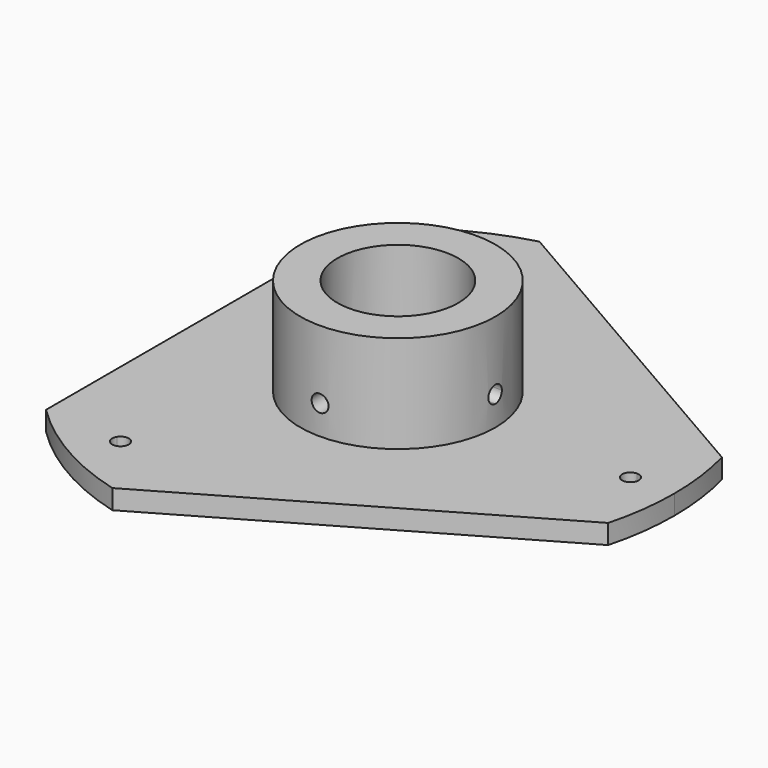
from build123d import *

# Parameters (mm, degrees)
F1_DEPTH       = 6
F3_DEPTH       = 25
F4_R           = 30
F4_R_2         = 18.6
F5_DEPTH       = 30
F6_R           = 18.5
F7_DEPTH       = 25
F9_DEPTH       = 25
F9_DEPTH_BACK  = 25
F11_DEPTH      = 25
F11_DEPTH_BACK = 25
F13_DEPTH      = 60.001
F13_DEPTH_BACK = 85.001
F14_R          = 2.6
F15_DEPTH      = 82.066510674
F15_DEPTH_BACK = 82.066510674


with BuildPart() as f1:
    # F0 (on Top) → F1 (new body)
    with BuildSketch(Plane.XY):
        with BuildLine():
            ThreePointArc((82.1416340365, -21.8575377801), (84.2823792174, -11.0218216937), (85, 0))
            ThreePointArc((85, 0), (84.2823792174, 11.0218216937), (82.1416340365, 21.8575377801))
            Line((82.1416340365, 21.8575377801), (-22.1416340365, 82.065510674))
            ThreePointArc((-22.1416340365, 82.065510674), (-42.5, 73.6121593217), (-60, 60.207972894))
            Line((-60, 60.207972894), (-60, -60.207972894))
            ThreePointArc((-60, -60.207972894), (-42.5, -73.6121593217), (-22.1416340365, -82.065510674))
            Line((-22.1416340365, -82.065510674), (82.1416340365, -21.8575377801))
        make_face()
    extrude(amount=F1_DEPTH)

    # F2 (on face) → F3 (cut)
    with BuildSketch(Plane.XY.offset(6)):
        with BuildLine():
            ThreePointArc((71.454527972, -2.5495945353), (71.4886310891, -1.275), (71.5, 0))
            ThreePointArc((71.5, 0), (71.4886310891, 1.275), (71.454527972, 2.5495945353))
            ThreePointArc((71.454527972, 2.5495945353), (68.95, 0), (71.454527972, -2.5495945353))
        make_face()
        with BuildLine():
            ThreePointArc((71.454527972, 2.5495945353), (71.4886310891, 1.275), (71.5, 0))
            ThreePointArc((71.5, 0), (71.4886310891, -1.275), (71.454527972, -2.5495945353))
            ThreePointArc((71.454527972, -2.5495945353), (73.2869731851, -1.8191280427), (74.05, 0))
            ThreePointArc((74.05, 0), (73.2869731851, 1.8191280427), (71.454527972, 2.5495945353))
        make_face()
        with BuildLine():
            ThreePointArc((-37.935277623, -60.6066391715), (-37.025, -64.1291811502), (-33.5192503491, -63.1562337069))
            ThreePointArc((-33.5192503491, -63.1562337069), (-35.75, -61.9208163706), (-37.935277623, -60.6066391715))
        make_face()
        with BuildLine():
            ThreePointArc((-37.935277623, -60.6066391715), (-35.75, -61.9208163706), (-33.5192503491, -63.1562337069))
            ThreePointArc((-33.5192503491, -63.1562337069), (-33.2811023097, -62.5588165234), (-33.2, -61.9208163706))
            ThreePointArc((-33.2, -61.9208163706), (-35.0680754949, -59.4636881751), (-37.935277623, -60.6066391715))
        make_face()
        with BuildLine():
            ThreePointArc((-37.935277623, 60.6066391715), (-35.75, 61.9208163706), (-33.5192503491, 63.1562337069))
            ThreePointArc((-33.5192503491, 63.1562337069), (-37.025, 64.1291811502), (-37.935277623, 60.6066391715))
        make_face()
        with BuildLine():
            ThreePointArc((-33.2, 61.9208163706), (-33.2811023097, 62.5588165234), (-33.5192503491, 63.1562337069))
            ThreePointArc((-33.5192503491, 63.1562337069), (-35.75, 61.9208163706), (-37.935277623, 60.6066391715))
            ThreePointArc((-37.935277623, 60.6066391715), (-35.0680754949, 59.4636881751), (-33.2, 61.9208163706))
        make_face()
    extrude(amount=-F3_DEPTH, mode=Mode.SUBTRACT)

    # F4 (on face) → F5 (join)
    with BuildSketch(Plane.XY.offset(6)):
        Circle(F4_R)
        Circle(F4_R_2, mode=Mode.SUBTRACT)
        Circle(F4_R)
        Circle(F4_R_2, mode=Mode.SUBTRACT)
    extrude(amount=F5_DEPTH)

    # F6 (on face) → F7 (cut)
    with BuildSketch(Plane.XY.offset(6)):
        Circle(F6_R)
    extrude(amount=-F7_DEPTH, mode=Mode.SUBTRACT)

    # F8 (on Right) → F9 (cut, two sides)
    with BuildSketch(Plane.YZ) as f9_sk:
        Polygon((-2.3094010768, 11), (2.3094010768, 11), (4.6188021535, 15), (2.3094010768, 19), (-2.3094010768, 19), (-4.6188021535, 15), align=None)
    extrude(amount=F9_DEPTH, mode=Mode.SUBTRACT)
    extrude(f9_sk.sketch, amount=-F9_DEPTH_BACK, mode=Mode.SUBTRACT)

    # F10 (on Front) → F11 (cut, two sides)
    with BuildSketch(Plane.XZ) as f11_sk:
        Polygon((-2.3094010768, 11), (2.3094010768, 11), (4.6188021535, 15), (2.3094010768, 19), (-2.3094010768, 19), (-4.6188021535, 15), align=None)
    extrude(amount=F11_DEPTH, mode=Mode.SUBTRACT)
    extrude(f11_sk.sketch, amount=-F11_DEPTH_BACK, mode=Mode.SUBTRACT)

    # F12 (on Right) → F13 (cut, two sides)
    with BuildSketch(Plane.YZ) as f13_sk:
        with BuildLine():
            ThreePointArc((0, 17.6), (-2.6, 15), (0, 12.4))
            Line((0, 12.4), (0, 17.6))
        make_face()
        with BuildLine():
            Line((0, 17.6), (0, 12.4))
            ThreePointArc((0, 12.4), (1.8384776311, 13.1615223689), (2.6, 15))
            ThreePointArc((2.6, 15), (1.8384776311, 16.8384776311), (0, 17.6))
        make_face()
    extrude(amount=-F13_DEPTH, mode=Mode.SUBTRACT)
    extrude(f13_sk.sketch, amount=F13_DEPTH_BACK, mode=Mode.SUBTRACT)

    # F14 (on Front) → F15 (cut, two sides)
    with BuildSketch(Plane.XZ) as f15_sk:
        with Locations((0, 15)):
            Circle(F14_R)
    extrude(amount=F15_DEPTH, mode=Mode.SUBTRACT)
    extrude(f15_sk.sketch, amount=-F15_DEPTH_BACK, mode=Mode.SUBTRACT)


solid = f1.part
